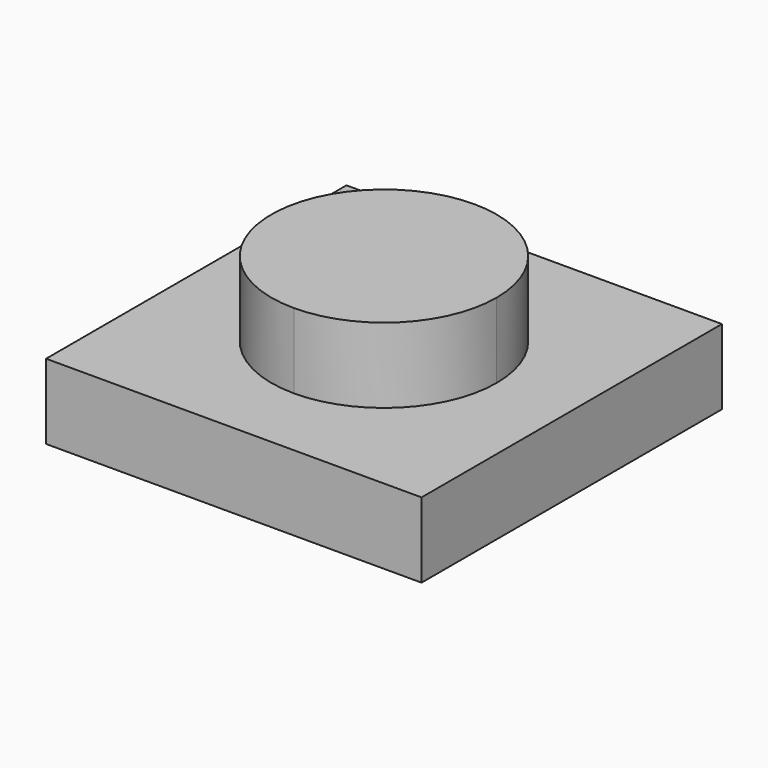
from build123d import *

# Parameters (mm, degrees)
F1_DEPTH = 3.2
F0_W     = 8
F0_H     = 8
F2_DEPTH = 1.6
F3_DEPTH = 1.6


with BuildPart() as f1:
    # F0 (on Top) → F1 (new body)
    with BuildSketch(Plane.XY):
        with BuildLine():
            Line((-29.190794, 15.240789), (-29.190794, 20.040789))
            ThreePointArc((-29.190794, 20.040789), (-31.590794, 17.640789), (-29.190794, 15.240789))
        make_face()
        with BuildLine():
            ThreePointArc((-29.190794, 15.240789), (-27.493737, 15.943732), (-26.790794, 17.640789))
            ThreePointArc((-26.790794, 17.640789), (-27.493737, 19.337845), (-29.190794, 20.040789))
            Line((-29.190794, 20.040789), (-29.190794, 15.240789))
        make_face()
    extrude(amount=F1_DEPTH)

    # F0 (on Top) → F2 (join)
    with BuildSketch(Plane.XY):
        with Locations((-29.190794, 17.640789)):
            Rectangle(F0_W, F0_H)
        with BuildLine():
            ThreePointArc((-29.190794, 20.040789), (-27.493737, 19.337845), (-26.790794, 17.640789))
            ThreePointArc((-26.790794, 17.640789), (-27.493737, 15.943732), (-29.190794, 15.240789))
            ThreePointArc((-29.190794, 15.240789), (-31.590794, 17.640789), (-29.190794, 20.040789))
        make_face(mode=Mode.SUBTRACT)
    extrude(amount=F2_DEPTH)

    # F0 (on Top) → F3 (cut)
    with BuildSketch(Plane.XY):
        with BuildLine():
            Line((-29.190794, 15.240789), (-29.190794, 20.040789))
            ThreePointArc((-29.190794, 20.040789), (-31.590794, 17.640789), (-29.190794, 15.240789))
        make_face()
        with BuildLine():
            ThreePointArc((-29.190794, 15.240789), (-27.493737, 15.943732), (-26.790794, 17.640789))
            ThreePointArc((-26.790794, 17.640789), (-27.493737, 19.337845), (-29.190794, 20.040789))
            Line((-29.190794, 20.040789), (-29.190794, 15.240789))
        make_face()
    extrude(amount=F3_DEPTH, mode=Mode.SUBTRACT)


solid = f1.part
